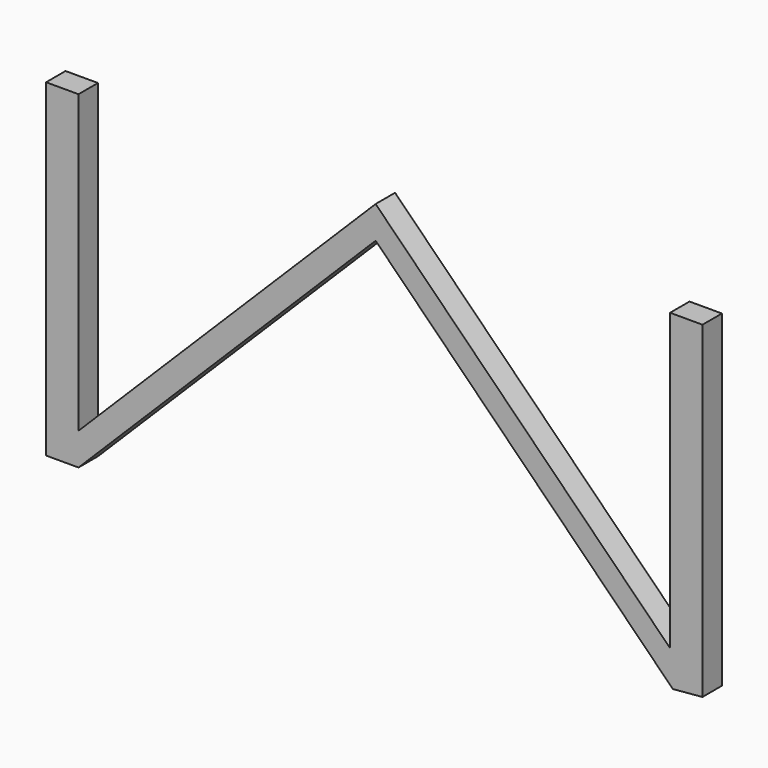
from build123d import *

# Parameters (mm, degrees)
F1_DEPTH = 5.603792


with BuildPart() as f1:
    # F0 (on Front) → F1 (new body)
    with BuildSketch(Plane.XZ):
        Polygon((0, -7.449928), (0, 0), (-68.460882, -68.272778), (-75.931335, -75.722706), (-68.460882, -75.722706), align=None)
        Polygon((75.306922, 0), (67.83846, 0), (67.83846, -68.025367), (75.306922, -75.514406), align=None)
        Polygon((-75.931335, -75.722706), (-68.460882, -68.272778), (-68.460882, 0), (-75.931335, 0), align=None)
        Polygon((67.83846, -68.025367), (0, 0), (0, -7.449928), (68.484643, -76.123258), (75.306922, -75.514406), align=None)
        Polygon((67.83846, -68.025367), (0, 0), (0, -7.449928), (68.484643, -76.123258), (75.306922, -75.514406), align=None)
        Polygon((0, -7.449928), (0, 0), (-68.460882, -68.272778), (-75.931335, -75.722706), (-68.460882, -75.722706), align=None)
        Polygon((75.306922, 0), (67.83846, 0), (67.83846, -68.025367), (75.306922, -75.514406), align=None)
        Polygon((-75.931335, -75.722706), (-68.460882, -68.272778), (-68.460882, 0), (-75.931335, 0), align=None)
    extrude(amount=F1_DEPTH)


solid = f1.part
